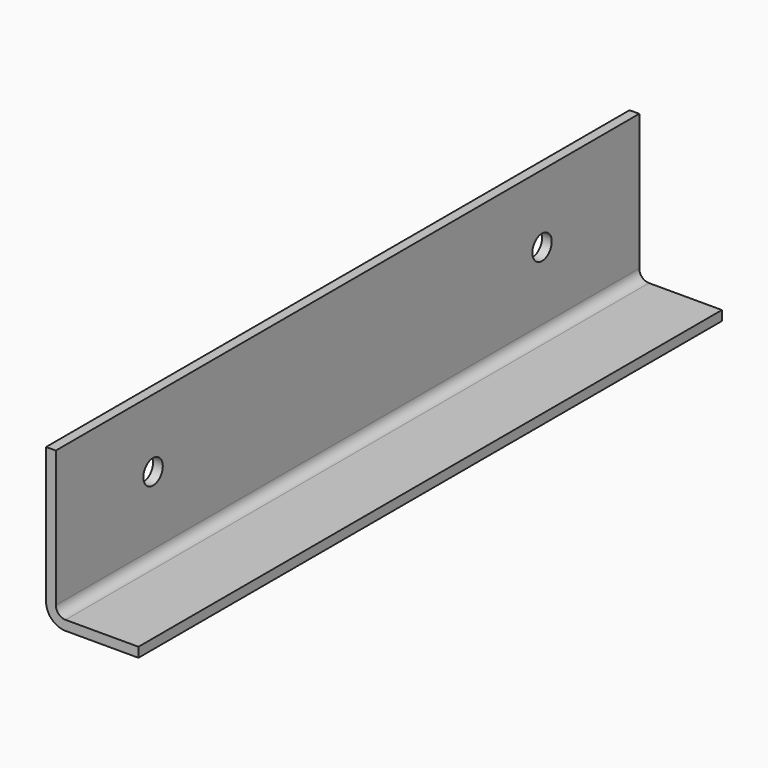
from build123d import *

# Parameters (mm, degrees)
F1_DEPTH = 150
F3_D     = 5


with BuildPart() as f1:
    # F0 (on Front) → F1 (new body)
    with BuildSketch(Plane.XZ):
        with BuildLine():
            Line((2, 30), (0, 30))
            Line((0, 30), (0, 2))
            ThreePointArc((0, 2), (0.136297, 0.964724), (0.535898, 0))
            ThreePointArc((0.535898, 0), (2, -1.464102), (4, -2))
            Line((4, -2), (19, -2))
            Line((19, -2), (19, 0))
            Line((19, 0), (4, 0))
            ThreePointArc((4, 0), (2.585786, 0.585786), (2, 2))
            Line((2, 2), (2, 30))
        make_face()
    extrude(amount=F1_DEPTH)

    # F3 (through all)
    with Locations(Plane.YZ.offset(2)):
        with Locations((-125, 16), (-25, 16)):
            Hole(F3_D / 2)


solid = f1.part
